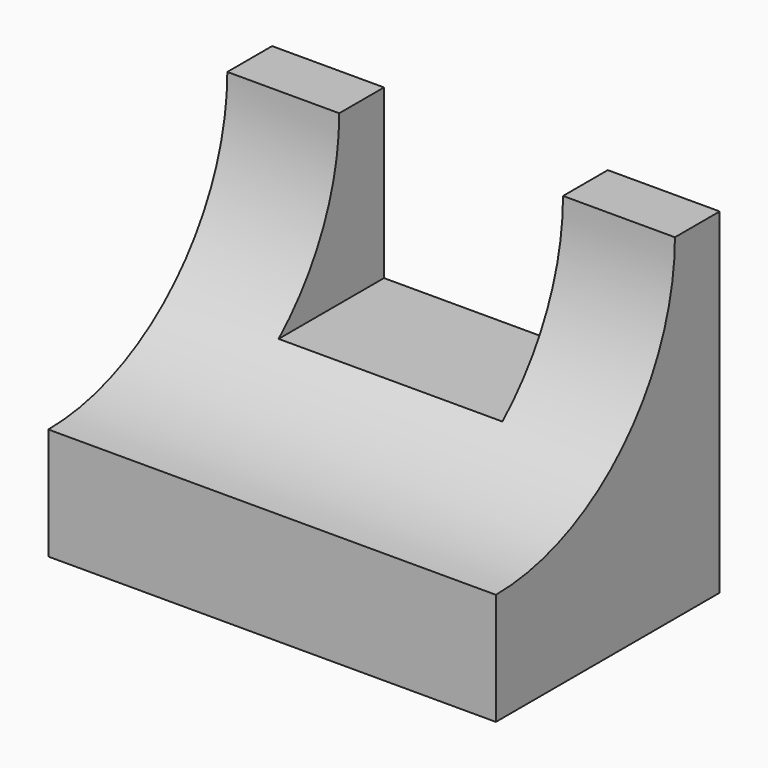
from build123d import *

# Parameters (mm, degrees)
F1_DEPTH = 127
F3_DEPTH = 203.201


with BuildPart() as f1:
    # F0 (on Front) → F1 (new body)
    with BuildSketch(Plane.XZ):
        Polygon((101.6, -76.2), (101.6, 76.2), (50.8, 76.2), (50.8, 0), (-50.8, 0), (-50.8, 76.2), (-101.6, 76.2), (-101.6, -76.2), align=None)
    extrude(amount=F1_DEPTH)

    # F2 (on face) → F3 (cut, through all)
    with BuildSketch(Plane.YZ.offset(101.6)):
        with BuildLine():
            ThreePointArc((-127, -25.4), (-55.1579510314, 4.3579510314), (-25.4, 76.2))
            Line((-25.4, 76.2), (-127, 76.2))
            Line((-127, 76.2), (-127, -25.4))
        make_face()
    extrude(amount=-F3_DEPTH, mode=Mode.SUBTRACT)


solid = f1.part
